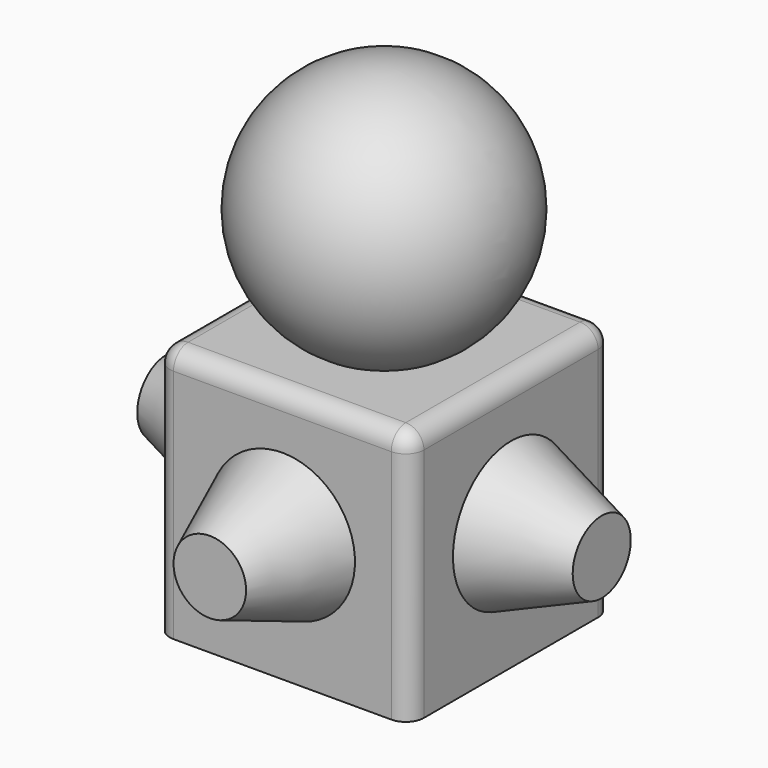
from build123d import *

# Parameters (mm, degrees)
BOX_W     = 14
BOX_H     = 14
BOX_DEPTH = 14
FILLET_R  = 1


with BuildPart() as cone:
    # Cone → Cone (revolve)
    with BuildSketch(Plane(origin=(7, -5, 7), x_dir=(-1, 0, 0), z_dir=(0, 0, -1))):
        Polygon((0, 0), (2, 0), (4, 5), (0, 5), align=None)
    revolve(axis=Axis((7, -5, 7), (0, 1, 0)))


with BuildPart() as cone001:
    # Cone001 → Cone001 (revolve)
    with BuildSketch(Plane(origin=(19, 7, 7), x_dir=(0, -1, 0), z_dir=(0, 0, -1))):
        Polygon((0, 0), (2, 0), (4, 5), (0, 5), align=None)
    revolve(axis=Axis((19, 7, 7), (-1, 0, 0)))


with BuildPart() as cone002:
    # Cone002 → Cone002 (revolve)
    with BuildSketch(Plane(origin=(7, 19, 7), x_dir=(1, 0, 0), z_dir=(0, 0, -1))):
        Polygon((0, 0), (2, 0), (4, 5), (0, 5), align=None)
    revolve(axis=Axis((7, 19, 7), (0, -1, 0)))


with BuildPart() as cone003:
    # Cone003 → Cone003 (revolve)
    with BuildSketch(Plane(origin=(-5, 7, 7), x_dir=(0, 1, 0), z_dir=(0, 0, -1))):
        Polygon((0, 0), (2, 0), (4, 5), (0, 5), align=None)
    revolve(axis=Axis((-5, 7, 7), (1, 0, 0)))


with BuildPart() as fillet_body:
    # Box → Box (new body)
    with BuildSketch(Plane.XY):
        with Locations((7, 7)):
            Rectangle(BOX_W, BOX_H)
    extrude(amount=BOX_DEPTH)

    # Fillet
    fillet_edges = [fillet_body.edges().sort_by_distance(p)[0] for p in [
        (0, 0, 7),
        (0, 7, 14),
        (0, 14, 7),
        (14, 0, 7),
        (14, 7, 14),
        (14, 14, 7),
        (7, 0, 14),
        (7, 14, 14),
    ]]
    fillet(fillet_edges, radius=FILLET_R)


with BuildPart() as fusion:
    # Sphere → Sphere (revolve)
    with BuildSketch(Plane(origin=(7, 7, 20), x_dir=(1, 0, 0), z_dir=(0, -1, 0))):
        with BuildLine():
            ThreePointArc((0, -7), (7, 0), (0, 7))
            Line((0, 7), (0, -7))
        make_face()
    revolve(axis=Axis((7, 7, 20), (0, 0, 1)))

    # Fusion: union Cone, Cone001, Cone002, Cone003, Fillet body
    add(cone.part)
    add(cone001.part)
    add(cone002.part)
    add(cone003.part)
    add(fillet_body.part)


solid = fusion.part
